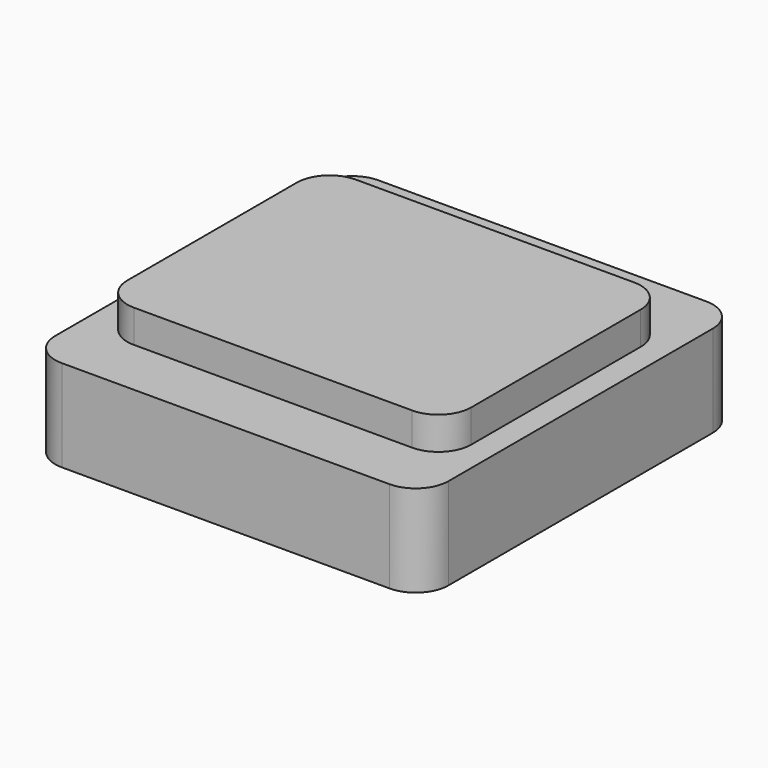
from build123d import *

# Parameters (mm, degrees)
F1_DEPTH = 8.89
F3_DEPTH = 15.24


with BuildPart() as f1:
    # F0 (on Top) → F1 (new body, symmetric)
    with BuildSketch(Plane.XY):
        with BuildLine():
            ThreePointArc((38.1, 32.004), (36.240128, 36.494128), (31.75, 38.354))
            Line((31.75, 38.354), (-31.75, 38.354))
            ThreePointArc((-31.75, 38.354), (-36.240128, 36.494128), (-38.1, 32.004))
            Line((-38.1, 32.004), (-38.1, -32.004))
            ThreePointArc((-38.1, -32.004), (-36.240128, -36.494128), (-31.75, -38.354))
            Line((-31.75, -38.354), (31.75, -38.354))
            ThreePointArc((31.75, -38.354), (36.240128, -36.494128), (38.1, -32.004))
            Line((38.1, -32.004), (38.1, 32.004))
        make_face()
        with BuildLine():
            Line((-25.399987, 26.03627), (25.399987, 26.03627))
            ThreePointArc((25.399987, 26.03627), (29.890115, 24.176398), (31.749987, 19.68627))
            Line((31.749987, 19.68627), (31.749987, -19.68627))
            ThreePointArc((31.749987, -19.68627), (29.890115, -24.176398), (25.399987, -26.03627))
            Line((25.399987, -26.03627), (-25.399987, -26.03627))
            ThreePointArc((-25.399987, -26.03627), (-29.890115, -24.176398), (-31.749987, -19.68627))
            Line((-31.749987, -19.68627), (-31.749987, 19.68627))
            ThreePointArc((-31.749987, 19.68627), (-29.890115, 24.176398), (-25.399987, 26.03627))
        make_face(mode=Mode.SUBTRACT)
    extrude(amount=F1_DEPTH, both=True)

    # F2 (on Top) → F3 (join)
    with BuildSketch(Plane.XY):
        with BuildLine():
            ThreePointArc((33.312712, 20.518289), (31.45284, 25.008417), (26.962712, 26.868289))
            Line((26.962712, 26.868289), (-26.962712, 26.868289))
            ThreePointArc((-26.962712, 26.868289), (-31.45284, 25.008417), (-33.312712, 20.518289))
            Line((-33.312712, 20.518289), (-33.312712, -20.518289))
            ThreePointArc((-33.312712, -20.518289), (-31.45284, -25.008417), (-26.962712, -26.868289))
            Line((-26.962712, -26.868289), (26.962712, -26.868289))
            ThreePointArc((26.962712, -26.868289), (31.45284, -25.008417), (33.312712, -20.518289))
            Line((33.312712, -20.518289), (33.312712, 20.518289))
        make_face()
    extrude(amount=F3_DEPTH)


solid = f1.part
